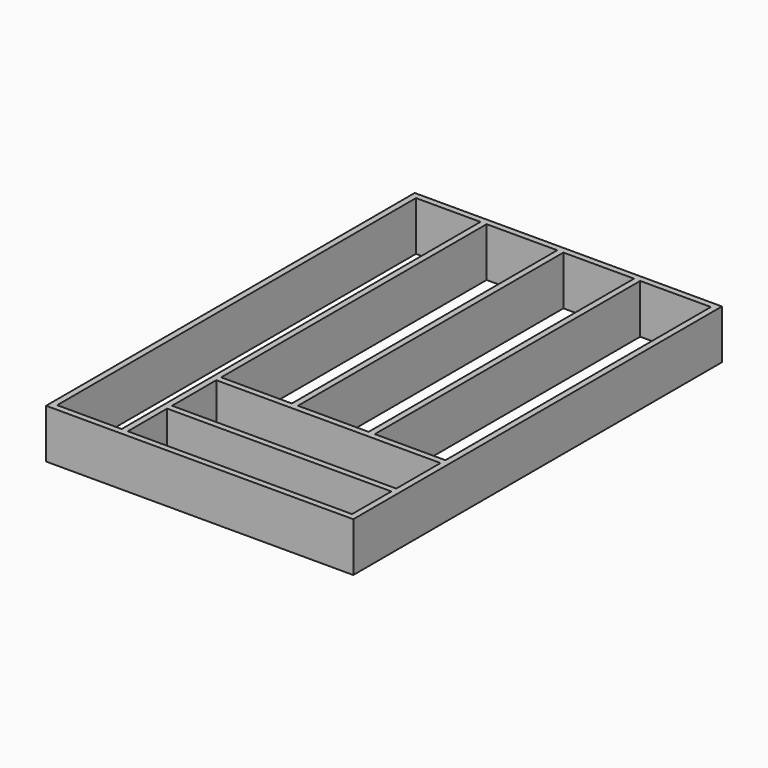
from build123d import *

# Parameters (mm, degrees)
F0_W     = 300
F0_H     = 450
F0_W_2   = 219
F0_H_2   = 48
F0_H_3   = 54
F0_W_3   = 63
F0_H_4   = 438
F0_W_4   = 69
F0_H_5   = 324
F1_DEPTH = 48


with BuildPart() as f1:
    # F0 (on Top) → F1 (new body)
    with BuildSketch(Plane.XY):
        Rectangle(F0_W, F0_H)
        with Locations((34.5, -195)):
            Rectangle(F0_W_2, F0_H_2, mode=Mode.SUBTRACT)
        with Locations((34.5, -138)):
            Rectangle(F0_W_2, F0_H_3, mode=Mode.SUBTRACT)
        with Locations((-112.5, 0)):
            Rectangle(F0_W_3, F0_H_4, mode=Mode.SUBTRACT)
        with Locations((-40.5, 57)):
            Rectangle(F0_W_4, F0_H_5, mode=Mode.SUBTRACT)
        with Locations((34.5, 57)):
            Rectangle(F0_W_4, F0_H_5, mode=Mode.SUBTRACT)
        with Locations((109.5, 57)):
            Rectangle(F0_W_4, F0_H_5, mode=Mode.SUBTRACT)
    extrude(amount=F1_DEPTH)


solid = f1.part
